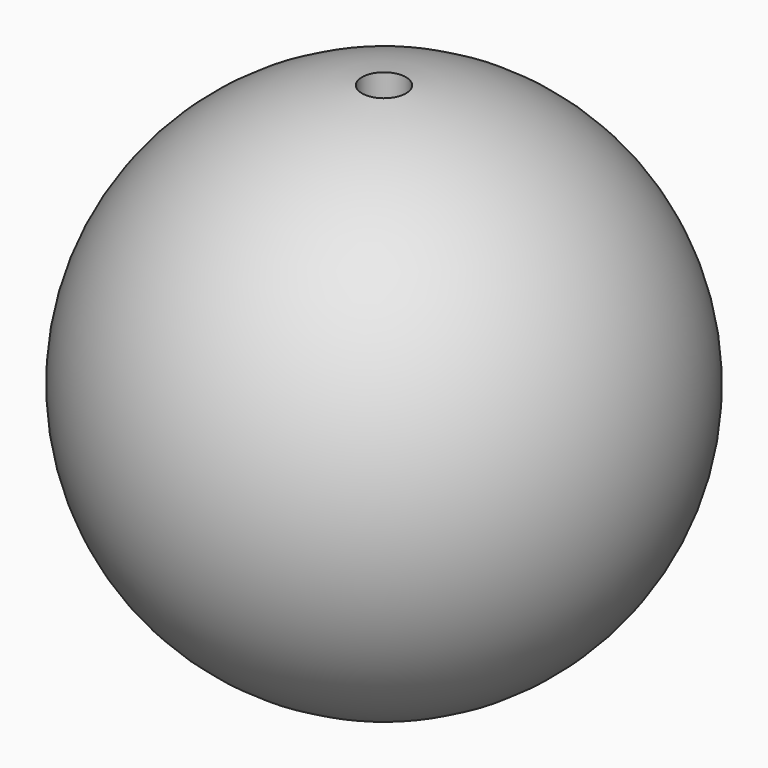
from build123d import *


with BuildPart() as f1:
    # F0 (on Front) → F1 (revolve)
    with BuildSketch(Plane.XZ):
        with BuildLine():
            Line((-2.5, 27.8881695348), (-2.5, 29.8956518578))
            ThreePointArc((-2.5, 29.8956518578), (-30, 0), (-2.5, -29.8956518578))
            Line((-2.5, -29.8956518578), (-2.5, -27.8881695348))
            ThreePointArc((-2.5, -27.8881695348), (-7.6326140948, -26.9396214168), (-12.5, -25.0549396327))
            ThreePointArc((-12.5, -25.0549396327), (-28, 0), (-12.5, 25.0549396327))
            ThreePointArc((-12.5, 25.0549396327), (-7.6326140948, 26.9396214168), (-2.5, 27.8881695348))
        make_face()
        with BuildLine():
            Line((-2.5, -27.8881695348), (-2.5, 27.8881695348))
            ThreePointArc((-2.5, 27.8881695348), (-7.6326140948, 26.9396214168), (-12.5, 25.0549396327))
            Line((-12.5, 25.0549396327), (-12.5, -25.0549396327))
            ThreePointArc((-12.5, -25.0549396327), (-7.6326140948, -26.9396214168), (-2.5, -27.8881695348))
        make_face()
    revolve(axis=Axis((0, 0, 1.2418618426), (0, 0, -1)))


solid = f1.part
